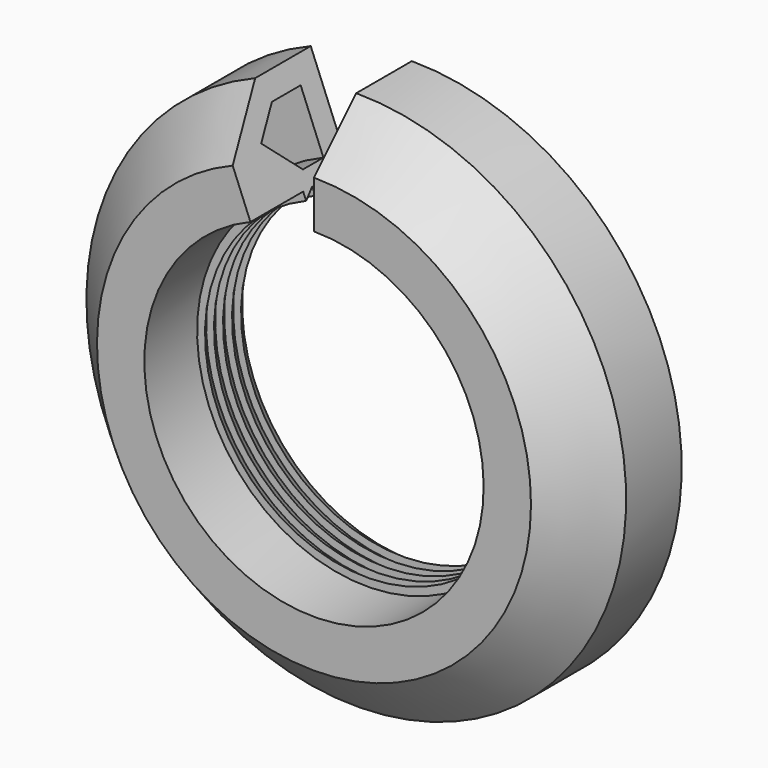
from build123d import *

# Parameters (mm, degrees)
F2_ANGLE = 338
F3_R     = 29.1
F3_R_2   = 17.1
F4_DEPTH = 25


with BuildPart() as f2:
    # F1 (on Right) → F2 (revolve)
    with BuildSketch(Plane.YZ):
        Polygon((-14.592193, 10.25), (-13.878119, 10.75), (-13.878119, 20.5), (-14.878119, 20.5), (-21.628119, 13.75), (-21.628119, 10.75), (-17.448489, 10.75), (-17.448489, 10.25), (-16.734415, 10.75), (-16.734415, 10.25), (-16.020341, 10.75), (-16.020341, 10.25), (-15.306267, 10.75), (-15.306267, 10.25), (-14.592193, 10.75), align=None)
    revolve(axis=Axis((0, -8.217514, 0), (0, 1, 0)), revolution_arc=F2_ANGLE)

    # F3 (on Front) → F4 (cut)
    with BuildSketch(Plane.XZ):
        Circle(F3_R)
        Circle(F3_R_2, mode=Mode.SUBTRACT)
    extrude(amount=F4_DEPTH, mode=Mode.SUBTRACT)

    # F5 (on face) → F6 (revolve, cut)
    with BuildSketch(Plane(origin=(0, 0, 0), x_dir=(0, 1, 0), z_dir=(0.927184, 0, 0.374607))):
        Polygon((-15.378119, 11.75), (-15.378119, 15.6), (-17.656798, 15.6), (-19.254081, 14.002717), (-17.001364, 11.75), align=None)
    revolve(axis=Axis((0, -8.217514, 0), (0, 1, 0)), mode=Mode.SUBTRACT)


solid = f2.part
